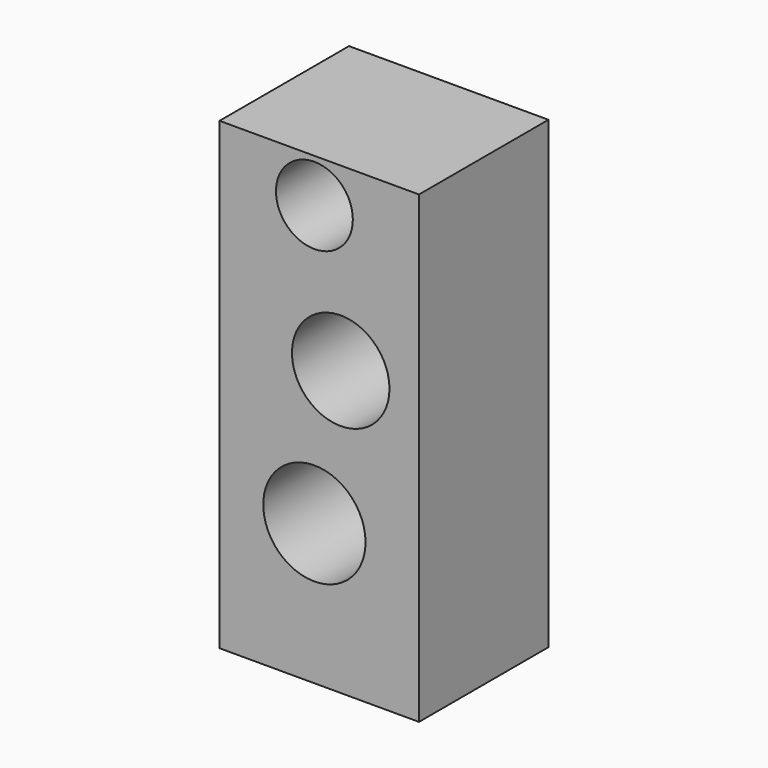
from build123d import *

# Parameters (mm, degrees)
F0_W     = 51.029243
F0_H     = 118.811481
F0_R     = 13.085796
F0_R_2   = 9.837697
F0_R_3   = 12.472461
F1_DEPTH = 41.402
F2_DEPTH = 25.4


with BuildPart() as f1:
    # F0 (on Front) → F1 (new body)
    with BuildSketch(Plane.XZ):
        with Locations((1.25166, -2.695885)):
            Rectangle(F0_W, F0_H)
        with Locations((0, -26.09231)):
            Circle(F0_R, mode=Mode.SUBTRACT)
        with Locations((0, 45.54119)):
            Circle(F0_R_2, mode=Mode.SUBTRACT)
        with Locations((6.739711, 10.494693)):
            Circle(F0_R_3, mode=Mode.SUBTRACT)
    extrude(amount=F1_DEPTH)

    # F0 (on Front) → F2 (join)
    with BuildSketch(Plane.XZ):
        with Locations((1.25166, -2.695885)):
            Rectangle(F0_W, F0_H)
        with Locations((0, -26.09231)):
            Circle(F0_R, mode=Mode.SUBTRACT)
        with Locations((0, 45.54119)):
            Circle(F0_R_2, mode=Mode.SUBTRACT)
        with Locations((6.739711, 10.494693)):
            Circle(F0_R_3, mode=Mode.SUBTRACT)
    extrude(amount=F2_DEPTH)


solid = f1.part
